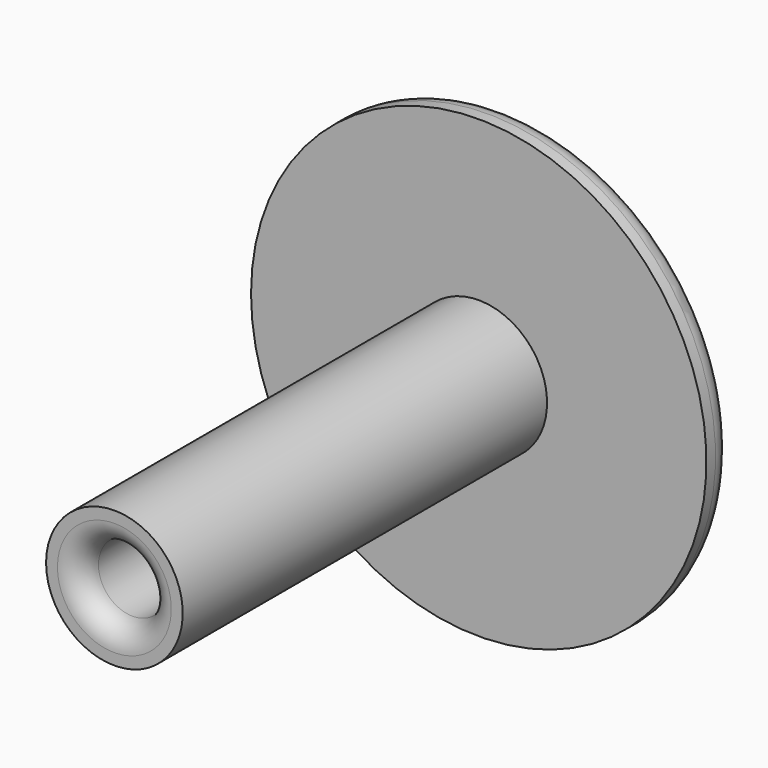
from build123d import *

# Parameters (mm, degrees)
F2_R = 1


with BuildPart() as f1:
    # F0 (on Top) → F1 (revolve)
    with BuildSketch(Plane.XY):
        Polygon((-1.5, 0), (-10, 0), (-10, -1.5), (-3, -1.5), (-3, -21.5), (-1.5, -21.5), align=None)
    revolve(axis=Axis((0, -2.739727, 0), (0, -1, 0)))

    # F2
    f2_edges = [f1.edges().sort_by_distance(p)[0] for p in [
        (1.5, 0, 0),
        (10, 0, 0),
        (1.5, -21.5, 0),
    ]]
    fillet(f2_edges, radius=F2_R)


solid = f1.part
